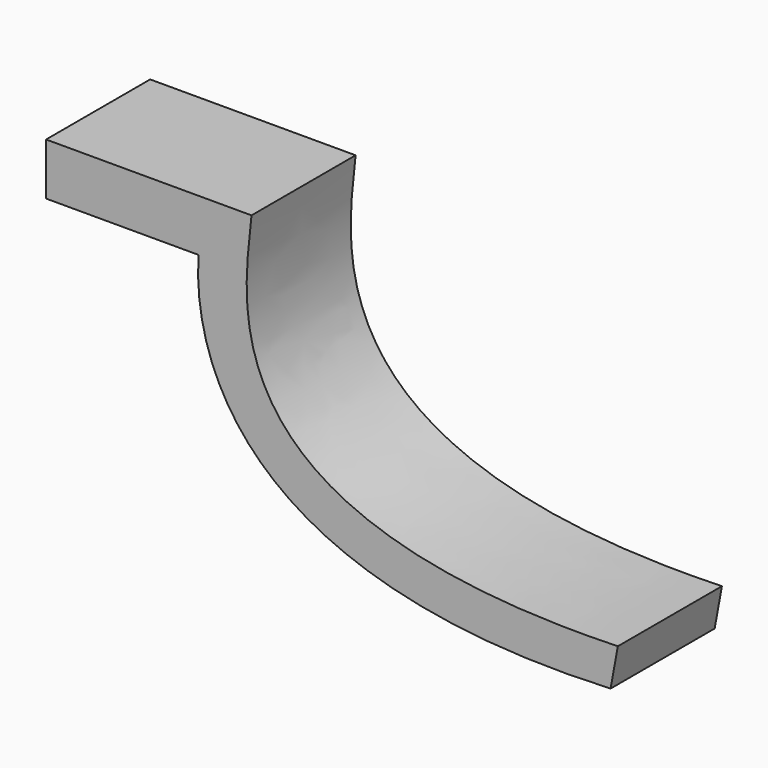
from build123d import *

# Parameters (mm, degrees)
F1_DEPTH = 12.7


with BuildPart() as f1:
    # F0 (on Front) → F1 (new body)
    with BuildSketch(Plane.XZ):
        with BuildLine():
            Line((-31.644711, 35.822344), (-51.697341, 35.822344))
            Line((-51.697341, 35.822344), (-51.697341, 30.742344))
            Line((-51.697341, 30.742344), (-36.811311, 30.742344))
            add(Edge.make_bspline(
                [(-36.811311, 30.742344), (-37.394196, 22.58198), (-33.605456, 4.804045), (3.407622, 6.552694)],
                knots=[0, 0, 0, 0, 46.932949, 46.932949, 46.932949, 46.932949], degree=3))
            Line((3.407622, 6.552694), (4.115814, 10.422344))
            add(Edge.make_bspline(
                [(-31.644711, 35.822344), (-32.313132, 28.469711), (-36.811311, 9.175669), (4.115814, 10.422344)],
                knots=[0, 0, 0, 0, 43.863141, 43.863141, 43.863141, 43.863141], degree=3))
        make_face()
    extrude(amount=-F1_DEPTH)


solid = f1.part
